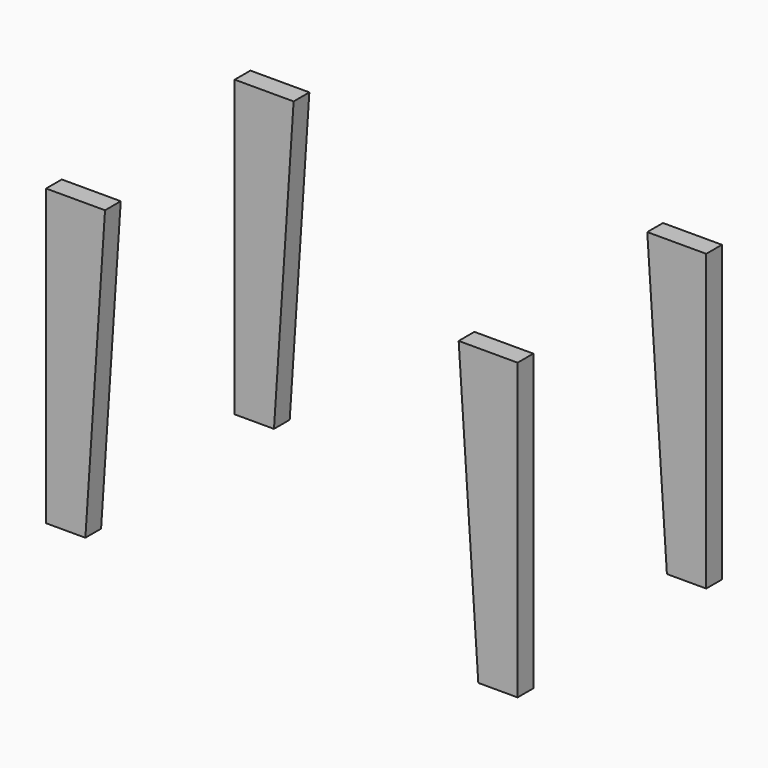
from build123d import *

# Parameters (mm, degrees)
F1_DEPTH = 50.8


with BuildPart() as f1:
    # F0 (on Front) → F1 (new body)
    with BuildSketch(Plane.XZ):
        Polygon((70.3415553808, 710.5477842391), (-82.0584446192, 710.5477842391), (-82.0584446192, -51.4522157609), (19.5415553808, -51.4522157609), align=None)
    extrude(amount=F1_DEPTH)


with BuildPart() as f2_1:
    # F2: copy of F1
    add(f1.part.moved(Location((0, 609.6, 0))))


with BuildPart() as f3_1:
    # F3: copy of F2_1
    add(f2_1.part.moved(Location((1219.2, 0, 0))))


with BuildPart() as f4_1:
    # F4: instance of F3_1
    add(f3_1.part.mirror(Plane(origin=(1137.1415553808, 584.2, 329.5477842391), x_dir=(0, -1, 0), z_dir=(-1, 0, 0))))


with BuildPart() as f6_1:
    # F6: copy of F4_1
    add(f4_1.part.moved(Location((0, -609.6, 0))))


solid = Compound([f1.part, f2_1.part, f4_1.part, f6_1.part])
